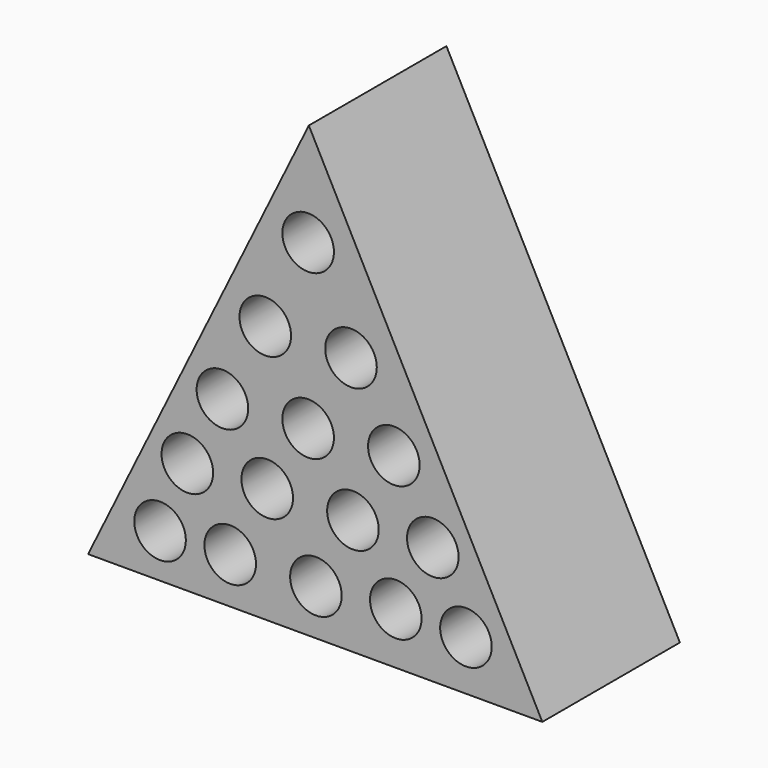
from build123d import *

# Parameters (mm, degrees)
F1_DEPTH  = 25.4
F2_R      = 3.81
F3_DEPTH  = 12.7
F4_R      = 3.81
F5_DEPTH  = 12.7
F6_R      = 3.81
F7_DEPTH  = 12.7
F8_R      = 3.81
F9_DEPTH  = 12.7
F10_R     = 3.81
F11_DEPTH = 12.7
F12_R     = 3.81
F13_DEPTH = 12.7
F14_R     = 3.81
F15_DEPTH = 12.7
F16_R     = 3.81
F17_DEPTH = 12.7
F18_R     = 3.81
F19_DEPTH = 12.7
F20_R     = 3.81
F21_DEPTH = 12.7
F22_R     = 3.81
F23_DEPTH = 12.7
F24_R     = 3.81
F25_DEPTH = 7.62
F26_R     = 3.81
F27_DEPTH = 12.7
F28_R     = 3.81
F29_DEPTH = 12.7
F30_R     = 3.81
F31_DEPTH = 12.7
F33_DEPTH = 127


with BuildPart() as f1:
    # F0 (on Front) → F1 (new body)
    with BuildSketch(Plane.XZ):
        Polygon((-76.988041, 0), (0, 0), (-39.573293, 76.124623), align=None)
    extrude(amount=F1_DEPTH)

    # F2 (on face) → F3 (cut)
    with BuildSketch(Plane.XZ.offset(25.4)):
        with Locations((-39.679505, 60.870919)):
            Circle(F2_R)
    extrude(amount=-F3_DEPTH, mode=Mode.SUBTRACT)

    # F4 (on face) → F5 (cut)
    with BuildSketch(Plane.XZ.offset(25.4)):
        with Locations((-46.011232, 47.919661)):
            Circle(F4_R)
    extrude(amount=-F5_DEPTH, mode=Mode.SUBTRACT)

    # F6 (on face) → F7 (cut)
    with BuildSketch(Plane.XZ.offset(25.4)):
        with Locations((-33.347782, 47.919661)):
            Circle(F6_R)
    extrude(amount=-F7_DEPTH, mode=Mode.SUBTRACT)

    # F8 (on face) → F9 (cut)
    with BuildSketch(Plane.XZ.offset(25.4)):
        with Locations((-52.342959, 36.40743)):
            Circle(F8_R)
    extrude(amount=-F9_DEPTH, mode=Mode.SUBTRACT)

    # F10 (on face) → F11 (cut)
    with BuildSketch(Plane.XZ.offset(25.4)):
        with Locations((-39.679505, 36.695234)):
            Circle(F10_R)
    extrude(amount=-F11_DEPTH, mode=Mode.SUBTRACT)

    # F12 (on face) → F13 (cut)
    with BuildSketch(Plane.XZ.offset(25.4)):
        with Locations((-27.016053, 37.270848)):
            Circle(F12_R)
    extrude(amount=-F13_DEPTH, mode=Mode.SUBTRACT)

    # F14 (on face) → F15 (cut)
    with BuildSketch(Plane.XZ.offset(25.4)):
        with Locations((-57.523463, 26.334228)):
            Circle(F14_R)
    extrude(amount=-F15_DEPTH, mode=Mode.SUBTRACT)

    # F16 (on face) → F17 (cut)
    with BuildSketch(Plane.XZ.offset(25.4)):
        with Locations((-45.723427, 26.909837)):
            Circle(F16_R)
    extrude(amount=-F17_DEPTH, mode=Mode.SUBTRACT)

    # F18 (on face) → F19 (cut)
    with BuildSketch(Plane.XZ.offset(25.4)):
        with Locations((-33.059973, 26.909837)):
            Circle(F18_R)
    extrude(amount=-F19_DEPTH, mode=Mode.SUBTRACT)

    # F20 (on face) → F21 (cut)
    with BuildSketch(Plane.XZ.offset(25.4)):
        with Locations((-21.259937, 27.197644)):
            Circle(F20_R)
    extrude(amount=-F21_DEPTH, mode=Mode.SUBTRACT)

    # F22 (on face) → F23 (cut)
    with BuildSketch(Plane.XZ.offset(25.4)):
        with Locations((-61.552744, 16.261026)):
            Circle(F22_R)
    extrude(amount=-F23_DEPTH, mode=Mode.SUBTRACT)

    # F24 (on face) → F25 (cut)
    with BuildSketch(Plane.XZ.offset(25.4)):
        with Locations((-51.191736, 16.548831)):
            Circle(F24_R)
    extrude(amount=-F25_DEPTH, mode=Mode.SUBTRACT)

    # F26 (on face) → F27 (cut)
    with BuildSketch(Plane.XZ.offset(25.4)):
        with Locations((-38.528282, 16.548831)):
            Circle(F26_R)
    extrude(amount=-F27_DEPTH, mode=Mode.SUBTRACT)

    # F28 (on face) → F29 (cut)
    with BuildSketch(Plane.XZ.offset(25.4)):
        with Locations((-26.728246, 17.412249)):
            Circle(F28_R)
    extrude(amount=-F29_DEPTH, mode=Mode.SUBTRACT)

    # F30 (on face) → F31 (cut)
    with BuildSketch(Plane.XZ.offset(25.4)):
        with Locations((-16.367238, 17.124442)):
            Circle(F30_R)
    extrude(amount=-F31_DEPTH, mode=Mode.SUBTRACT)

    # F32 (on face) → F33 (cut)
    with BuildSketch(Plane.XZ.offset(25.4)):
        Polygon((-5.083223, 9.778273), (-72.182085, 9.778273), (-76.988041, 0), (0, 0), align=None)
    extrude(amount=-F33_DEPTH, mode=Mode.SUBTRACT)


solid = f1.part
